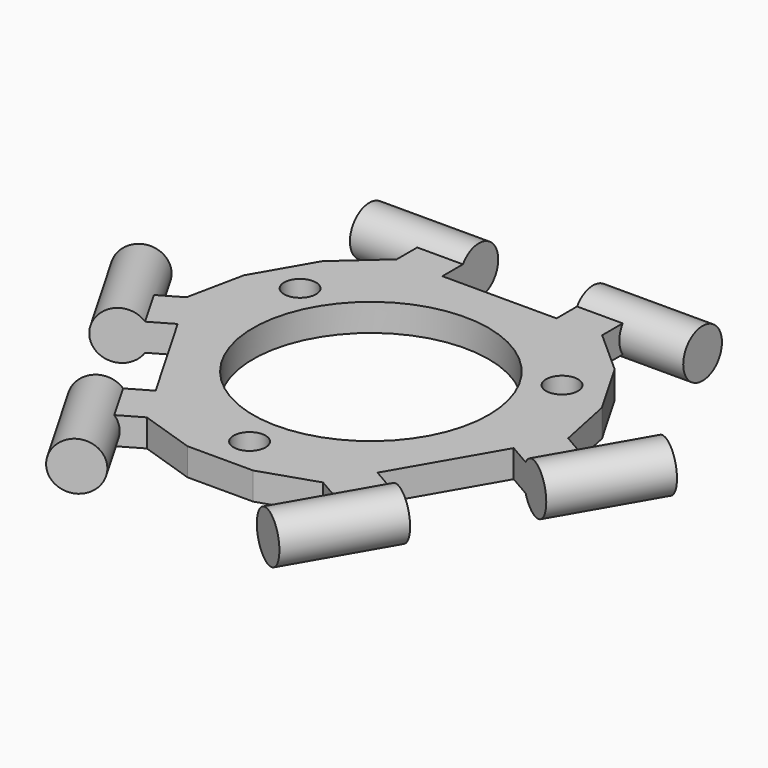
from build123d import *

# Parameters (mm, degrees)
F0_R      = 12.9
F1_DEPTH  = 3
F2_R      = 1.75
F3_DEPTH  = 3.001
F4_R      = 2.65
F5_DEPTH  = 12
F6_R      = 2.65
F7_DEPTH  = 12
F8_R      = 2.65
F9_DEPTH  = 12
F10_R     = 2.65
F11_DEPTH = 12
F12_R     = 2.65
F13_DEPTH = 12
F14_R     = 2.65
F15_DEPTH = 12


with BuildPart() as f1:
    # F0 (on Top) → F1 (new body)
    with BuildSketch(Plane.XY):
        Polygon((16.0075136901, 22.7174561645), (11.25, 26.956246243), (11.25, 31.956246243), (6.25, 31.956246243), (6.25, 26.956246243), (-6.25, 26.956246243), (-6.25, 31.956246243), (-11.25, 31.956246243), (-11.25, 26.956246243), (-16.0075136901, 22.7174561645), (-19.6075136901, 16.4820732572), (-20.8996567344, 10.2425505034), (-25.2297837534, 7.7425505034), (-22.7297837534, 3.4124234845), (-18.3996567344, 5.9124234845), (-12.1496567344, -4.9128940628), (-16.4797837534, -7.4128940628), (-13.9797837534, -11.7430210817), (-9.6496567344, -9.2430210817), (-3.6, -11.243753757), (3.6, -11.243753757), (9.6497229346, -9.2429064231), (13.9797837534, -11.7430210817), (16.4797837534, -7.4128940628), (12.1496567344, -4.9128940628), (18.3996567344, 5.9124234845), (22.7297837534, 3.4124234845), (25.2297837534, 7.7425505034), (20.8996567344, 10.2425505034), (19.6075136901, 16.4820732572), align=None)
        with Locations((0, 9.3591320669)):
            Circle(F0_R, mode=Mode.SUBTRACT)
    extrude(amount=F1_DEPTH)

    # F2 (on face) → F3 (cut, through all)
    with BuildSketch(Plane.XY.offset(3)):
        with Locations((-14.343412075, 17.5997647108)):
            Circle(F2_R)
        with Locations((14.343412075, 17.5997647108)):
            Circle(F2_R)
        with Locations((0, -7.243753757)):
            Circle(F2_R)
    extrude(amount=-F3_DEPTH, mode=Mode.SUBTRACT)

    # F4 (on face) → F5 (join)
    with BuildSketch(Plane(origin=(6.25, 0, 0), x_dir=(0, -1, 0), z_dir=(-1, 0, 0))):
        with Locations((-31.956246243, 1.5)):
            Circle(F4_R)
    extrude(amount=-F5_DEPTH)

    # F6 (on face) → F7 (join)
    with BuildSketch(Plane.YZ.offset(-6.25)):
        with Locations((31.956246243, 1.5)):
            Circle(F6_R)
    extrude(amount=-F7_DEPTH)

    # F8 (on face) → F9 (join)
    with BuildSketch(Plane(origin=(-7.1600686514, 12.4016026898, 0), x_dir=(0.8660254038, 0.5, 0), z_dir=(0.5, -0.8660254038, 0))):
        with Locations((-17.9783584107, 1.5)):
            Circle(F8_R)
    extrude(amount=-F9_DEPTH)

    # F10 (on face) → F11 (join)
    with BuildSketch(Plane(origin=(-0.9100686514, 1.5762851425, 0), x_dir=(-0.8660254038, -0.5, 0), z_dir=(-0.5, 0.8660254038, 0))):
        with Locations((17.9783584107, 1.5)):
            Circle(F10_R)
    extrude(amount=-F11_DEPTH)

    # F12 (on face) → F13 (join)
    with BuildSketch(Plane(origin=(0.9100686514, 1.5762851425, 0), x_dir=(-0.8660254038, 0.5, 0), z_dir=(0.5, 0.8660254038, 0))):
        with Locations((-17.9783584107, 1.5)):
            Circle(F12_R)
    extrude(amount=-F13_DEPTH)

    # F14 (on face) → F15 (join)
    with BuildSketch(Plane(origin=(7.1600686514, 12.4016026898, 0), x_dir=(0.8660254038, -0.5, 0), z_dir=(-0.5, -0.8660254038, 0))):
        with Locations((17.9783584107, 1.5)):
            Circle(F14_R)
    extrude(amount=-F15_DEPTH)


solid = f1.part
